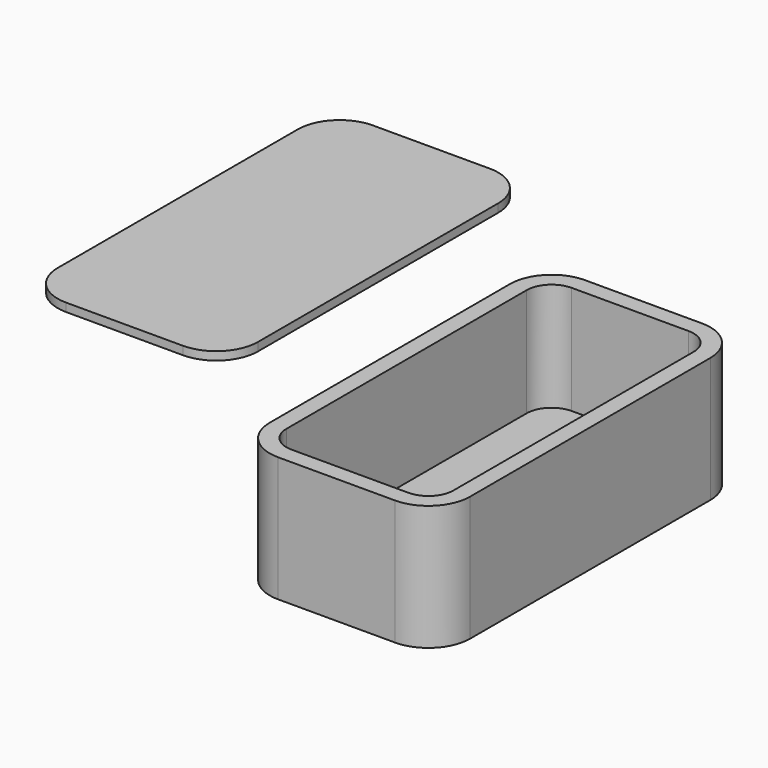
from build123d import *

# Parameters (mm, degrees)
F1_DEPTH = 38.1
F2_T     = -5.08
F4_DEPTH = 2.54


with BuildPart() as f1:
    # F0 (on Top) → F1 (new body)
    with BuildSketch(Plane.XY):
        with BuildLine():
            ThreePointArc((30.507412, 45.72457), (26.787668, 54.704826), (17.807412, 58.42457))
            Line((17.807412, 58.42457), (-17.807412, 58.42457))
            ThreePointArc((-17.807412, 58.42457), (-26.787668, 54.704826), (-30.507412, 45.72457))
            Line((-30.507412, 45.72457), (-30.507412, -45.72457))
            ThreePointArc((-30.507412, -45.72457), (-26.787668, -54.704826), (-17.807412, -58.42457))
            Line((-17.807412, -58.42457), (17.807412, -58.42457))
            ThreePointArc((17.807412, -58.42457), (26.787668, -54.704826), (30.507412, -45.72457))
            Line((30.507412, -45.72457), (30.507412, 45.72457))
        make_face()
    extrude(amount=F1_DEPTH)

    # F2
    f2_openings = [f1.faces().sort_by_distance(p)[0] for p in [
        (0, 0, 38.1),
    ]]
    offset(amount=F2_T, openings=f2_openings)


with BuildPart() as f4:
    # F3 (on face) → F4 (new body)
    with BuildSketch(Plane.XY.offset(38.1)):
        with BuildLine():
            ThreePointArc((-55.618133, 72.632677), (-59.337877, 81.612933), (-68.318133, 85.332677))
            Line((-68.318133, 85.332677), (-103.932957, 85.332677))
            ThreePointArc((-103.932957, 85.332677), (-112.913213, 81.612933), (-116.632957, 72.632677))
            Line((-116.632957, 72.632677), (-116.632957, -18.816463))
            ThreePointArc((-116.632957, -18.816463), (-112.913213, -27.796719), (-103.932957, -31.516463))
            Line((-103.932957, -31.516463), (-68.318133, -31.516463))
            ThreePointArc((-68.318133, -31.516463), (-59.337877, -27.796719), (-55.618133, -18.816463))
            Line((-55.618133, -18.816463), (-55.618133, 72.632677))
        make_face()
    extrude(amount=F4_DEPTH)


solid = Compound([f1.part, f4.part])
